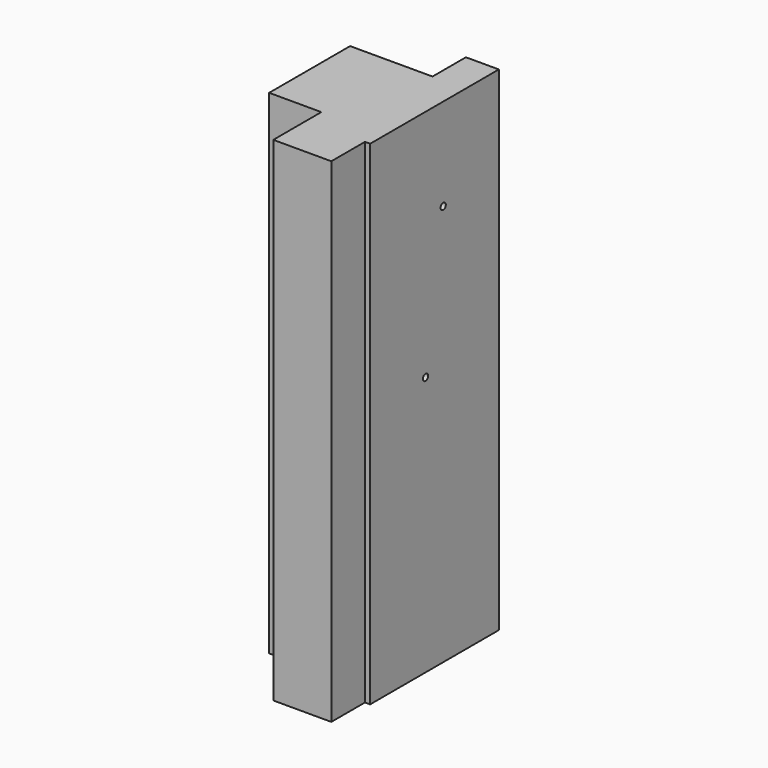
from build123d import *

# Parameters (mm, degrees)
F1_DEPTH      = 254
F1_DEPTH_BACK = 254
F3_D          = 6.35
F4_R          = 49.5981028819
F4_R_2        = 3.175
F5_DEPTH      = 25.4
F6_DEPTH      = 25.4
F7_DEPTH      = 25.4


with BuildPart() as f1:
    # F0 (on Top) → F1 (new body, two sides)
    with BuildSketch(Plane.XY) as f1_sk:
        Polygon((-51.0406941175, 0), (0, 0), (0, -58.7314069271), (56.7247420549, -58.7314069271), (56.7247420549, -17.6112949848), (87.1720016003, -17.6112949848), (87.1720016003, 139.7417336702), (29.5281931758, 139.7417336702), (29.5281931758, 98.9419966936), (-51.0406941175, 98.9419966936), align=None)
    extrude(amount=F1_DEPTH)
    extrude(f1_sk.sketch, amount=-F1_DEPTH_BACK)

    # F3 (through all)
    with Locations(Plane.YZ.offset(87.1720016003)):
        with Locations((71.7472732067, 138.4787261486), (50.1599907875, 0)):
            Hole(F3_D / 2)

    # F4 (on face) → F5 (cut)
    with BuildSketch(Plane.YZ.offset(87.1720016003)):
        with Locations((71.7472732067, 138.4787261486)):
            Circle(F4_R)
        with Locations((71.7472732067, 138.4787261486)):
            Circle(F4_R_2, mode=Mode.SUBTRACT)
    extrude(amount=-F5_DEPTH, mode=Mode.SUBTRACT)

    # F6 (cut): a face of the model
    f6_faces = [f1.faces().sort_by_distance(p)[0] for p in [
        (26.0044573743, 42.9582236977, 254),
    ]]
    extrude(f6_faces, amount=-F6_DEPTH, mode=Mode.SUBTRACT)

    # F7 (cut): a face of the model
    f7_faces = [f1.faces().sort_by_distance(p)[0] for p in [
        (87.1720016003, 59.8594463551, -29.8423997795),
    ]]
    extrude(f7_faces, amount=-F7_DEPTH, mode=Mode.SUBTRACT)


solid = f1.part
